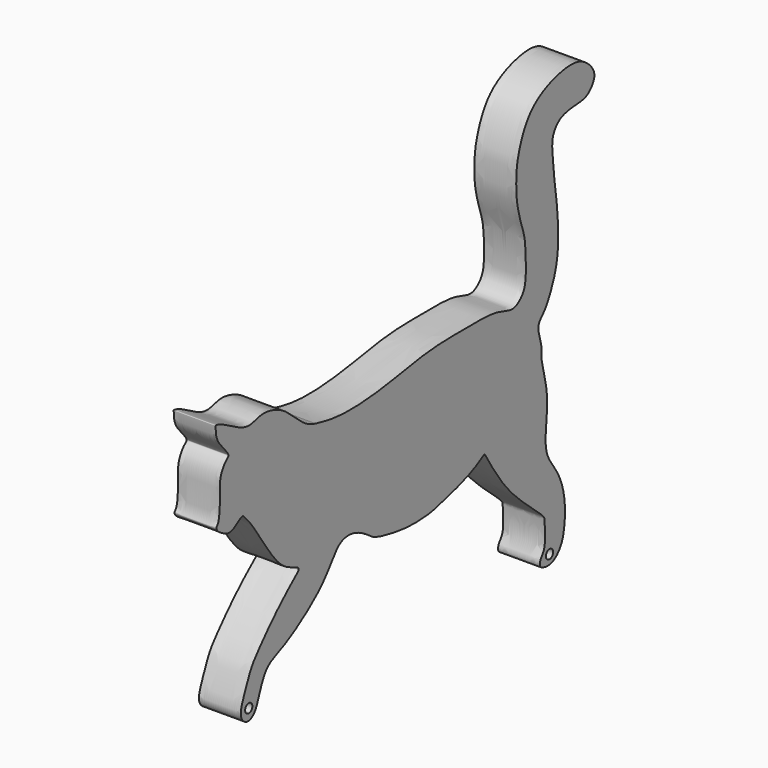
from build123d import *

# Parameters (mm, degrees)
F2_DEPTH = 7
F3_R     = 0.7584795356
F4_DEPTH = 25


with BuildPart() as f2:
    # F1 (on face) → F2 (new body)
    with BuildSketch(Plane.YZ):
        with BuildLine():
            add(Edge.make_bspline(
                [(12.0232319459, -5.1565920003), (12.2481198187, -5.5447951882), (12.868521724, -6.6157377623), (15.6303345675, -10.9450047604), (18.9625021603, -14.7891050679), (24.5688331823, -19.3242180445), (24.5301451347, -19.9950965393), (24.965812442, -24.2649570428), (23.5936216433, -25.3353157941), (23.5507662403, -26.5446660228), (24.2460809912, -26.909357301), (26.0650661849, -27.2154148559), (27.8112057673, -25.677215486), (28.6877679009, -23.6102914407), (29.0272188691, -19.4354461266), (28.2193912233, -15.9363524677), (26.9195584233, -13.3419067388), (24.4760824822, -10.3580749303), (24.9828463082, -5.4841494415), (25.3413546263, -0.9035423914), (23.6327567789, 4.1725707264), (24.2266303584, 5.6492612289), (22.6955610976, 9.2746692788), (24.6216398451, 10.5616408604), (26.3050231065, 13.9534800005), (27.6188361401, 17.9707950417), (27.3150103688, 24.9359906344), (26.6533651053, 28.7058862633), (26.3360101212, 32.4051141828), (25.9501466393, 35.6873054468), (27.3019726265, 37.489372754), (28.4682518036, 38.1299182873), (30.7200305416, 38.5634850966), (33.3777853093, 38.5089581045), (35.0001836797, 40.4355099188), (35.0808093864, 42.0549909176), (33.3269996635, 44.0569451619), (30.7368547894, 45.1079654417), (26.8611424236, 44.4675963422), (23.5564818329, 43.077503032), (20.6457292058, 40.5887129318), (18.797120714, 35.6044223028), (18.633009433, 32.5757025978), (18.6087151456, 29.1091195425), (19.8814239088, 24.9586151969), (20.4948905089, 23.2063696786), (20.6882094495, 19.8057602528), (20.6718199532, 17.3364035632), (20.3335388041, 15.2025323542), (18.0128829863, 13.2319874028), (14.8099568093, 15.0964628603), (7.0515218048, 14.918117798), (-0.0091457275, 14.9449512729), (-9.498411705, 12.9826180032), (-18.1570810601, 12.5128386388), (-21.7556173803, 13.327626423), (-23.3110263944, 13.6798415333)],
                knots=[0, 0, 0, 0, 0.0128021579, 0.0352077534, 0.0601204678, 0.0861323479, 0.0947244066, 0.1149627413, 0.1282060555, 0.1380542357, 0.1463988439, 0.1596795739, 0.1745186137, 0.1897085661, 0.2104038141, 0.2297200081, 0.2469079529, 0.2662657248, 0.2881771483, 0.3107792978, 0.3334300022, 0.3463663766, 0.3649534117, 0.37919324, 0.3984952938, 0.4198532936, 0.4464820224, 0.4666957494, 0.486210036, 0.5045048216, 0.518917783, 0.5304152471, 0.5456861706, 0.5621854556, 0.5773684831, 0.5896077245, 0.6055193114, 0.6223414824, 0.6422144076, 0.6614220517, 0.6811544915, 0.7042461005, 0.7219847117, 0.7409992533, 0.7619009046, 0.7760730825, 0.7945157365, 0.8107722151, 0.8254268055, 0.8412985272, 0.8597016318, 0.8877177524, 0.9153125519, 0.9470538924, 0.9770418539, 1, 1, 1, 1], degree=3))
            add(Edge.make_bspline(
                [(-23.3110263944, 13.6798415333), (-23.8563936262, 13.8346337664), (-25.1320696656, 14.1967104209), (-27.6041064322, 16.2257034643), (-30.0439913745, 18.6777040945), (-34.5170853552, 20.1360194065), (-37.6452127297, 18.3009810213), (-41.7126607551, 21.1237025349), (-44.389742657, 22.1044144984), (-44.1470605209, 21.5205057515), (-44.3732992218, 19.2937130778), (-40.9873105041, 16.4993022168), (-42.1335407551, 15.9078598514), (-43.565646209, 13.8130488493), (-43.2094726554, 10.5081182096), (-43.5242294255, 7.2031450827), (-44.2051927775, 6.797475059), (-43.7679526294, 6.0290540734), (-42.6460869277, 5.3648284065), (-40.8963573383, 4.4555483714), (-38.7191831534, 6.6663680053), (-38.0660173835, 5.7543086731), (-36.9101265964, 4.6822212897), (-34.4117198628, 0.8148197465), (-32.7876718973, -1.5711765036), (-29.9957277756, -5.2458230535), (-26.0987843925, -6.0113838163), (-28.1969107981, -7.563022731), (-32.1227584749, -11.1957287657), (-34.943376752, -14.4320988274), (-36.7946814754, -16.5998425287), (-37.9329910502, -19.4613546202), (-39.216539002, -22.409634272), (-38.718884827, -23.8797759484), (-37.5113664331, -24.6757557291), (-35.9315894556, -23.8563042155), (-35.2471370431, -21.7269806151), (-34.0425899783, -18.7031669347), (-32.6605638193, -17.4318862472), (-29.662108139, -16.319089505), (-25.1787423529, -13.507578222), (-21.6475376408, -10.4620669716), (-19.7275797552, -7.6795653066), (-18.3212759965, -5.8704835584), (-16.2497185525, -5.3997203299), (-14.026664071, -6.0443254721), (-12.0473399983, -7.3654830018), (-11.0255678481, -8.1941773741), (-7.335372437, -9.0295089412), (-3.6651287607, -9.4919262671), (-0.8515009572, -9.3925828947), (1.4797177037, -9.1572244202), (4.0433744997, -8.3038864425), (4.6212981824, -8.25137003), (7.7144462966, -7.3480300339), (9.9364142477, -6.4669190337), (12.0232319459, -5.1565920003)],
                knots=[0, 0, 0, 0, 0.0157401455, 0.0362877836, 0.0584440656, 0.082724111, 0.1035751148, 0.1295526337, 0.1471079669, 0.1530068536, 0.1702032019, 0.1928710503, 0.2028599077, 0.2206721927, 0.2427562299, 0.2634277739, 0.2721234759, 0.2816510936, 0.2951934105, 0.3107959218, 0.3293781165, 0.3392026711, 0.3539570405, 0.3787139541, 0.3994385911, 0.424650505, 0.4443745503, 0.4587166579, 0.4865660123, 0.5111323317, 0.5304284471, 0.5511199513, 0.5717914936, 0.5854738148, 0.5983645812, 0.6124969307, 0.6300662379, 0.6510112119, 0.6665670235, 0.6870032677, 0.7141524175, 0.7396323317, 0.7609567131, 0.7781431313, 0.7943612879, 0.812191398, 0.82986367, 0.8431696522, 0.8654524095, 0.8885086536, 0.9077754497, 0.926202386, 0.9447319366, 0.953844307, 0.9730496717, 1, 1, 1, 1], degree=3))
        make_face()
    extrude(amount=F2_DEPTH)

    # F3 (on Right) → F4 (cut)
    with BuildSketch(Plane.YZ):
        with Locations((-37.3000279069, -22.5562360138)):
            Circle(F3_R)
        with Locations((25.6031900644, -25.4384595901)):
            Circle(F3_R)
    extrude(amount=F4_DEPTH, mode=Mode.SUBTRACT)


solid = f2.part
